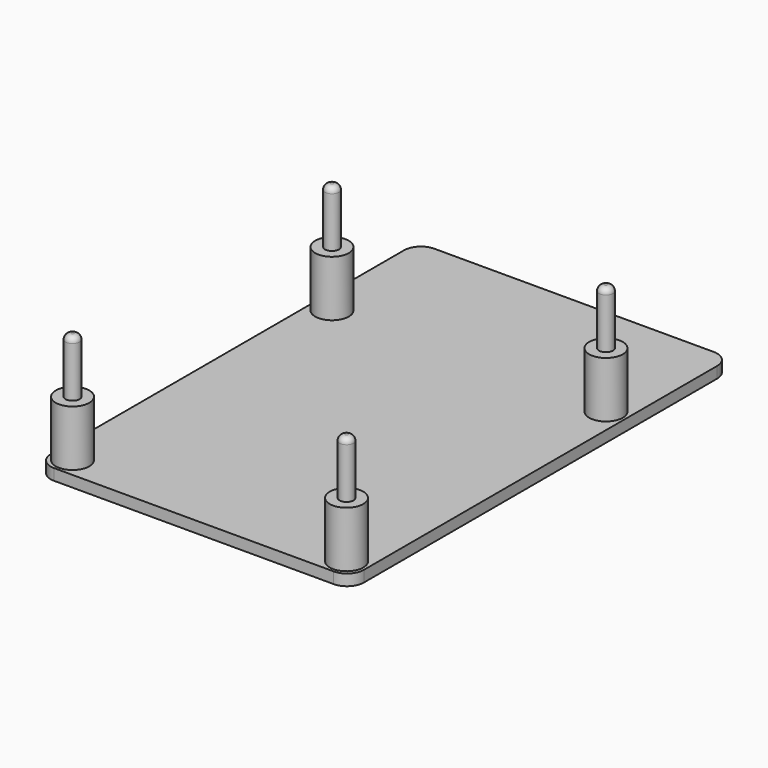
from build123d import *

# Parameters (mm, degrees)
F0_W     = 56
F0_H     = 85
F1_DEPTH = 2
F2_R     = 3
F3_R     = 1.25
F5_DEPTH = 20
F4_R     = 3
F6_DEPTH = 10
F7_R     = 2
F8_DEPTH = 7
F9_R     = 1


with BuildPart() as f1:
    # F0 (on Top) → F1 (new body)
    with BuildSketch(Plane.XY):
        Rectangle(F0_W, F0_H)
    extrude(amount=F1_DEPTH)

    # F2
    f2_edges = [f1.edges().sort_by_distance(p)[0] for p in [
        (-28, 42.5, 1),
        (28, 42.5, 1),
        (28, -42.5, 1),
        (-28, -42.5, 1),
    ]]
    fillet(f2_edges, radius=F2_R)


with BuildPart() as f5:
    # F3 (on face) → F5 (new body)
    with BuildSketch(Plane.XY.offset(2)):
        with Locations((-24.5, -39)):
            Circle(F3_R)
        with Locations((24.5, -39)):
            Circle(F3_R)
        with Locations((-24.5, 19)):
            Circle(F3_R)
        with Locations((24.5, 19)):
            Circle(F3_R)
    extrude(amount=F5_DEPTH)


with BuildPart() as f6:
    # F4 (on face) → F6 (new body)
    with BuildSketch(Plane.XY.offset(2)):
        with Locations((-24.5, 19)):
            Circle(F4_R)
        with Locations((24.5, 19)):
            Circle(F4_R)
        with Locations((-24.5, -39)):
            Circle(F4_R)
        with Locations((24.5, -39)):
            Circle(F4_R)
    extrude(amount=F6_DEPTH)


with BuildPart() as f8_tool:
    # F7 (on face) → F8 (new body)
    with BuildSketch(Plane(origin=(0, 0, 0), x_dir=(1, 0, 0), z_dir=(0, 0, -1))):
        with Locations((-24.5, 39)):
            Circle(F7_R)
        with Locations((24.5, 39)):
            Circle(F7_R)
        with Locations((-24.5, -19)):
            Circle(F7_R)
        with Locations((24.5, -19)):
            Circle(F7_R)
    extrude(amount=-F8_DEPTH)


with BuildPart() as f1_1:
    add(f1.part)

    # F8: cut by f8_tool
    add(f8_tool.part, mode=Mode.SUBTRACT)


with BuildPart() as f5_1:
    add(f5.part)

    # F8: cut by f8_tool
    add(f8_tool.part, mode=Mode.SUBTRACT)

    # F9
    f9_edges = [f5_1.edges().sort_by_distance(p)[0] for p in [
        (-25.75, 19, 22),
        (-25.75, -39, 22),
        (23.25, -39, 22),
        (23.25, 19, 22),
    ]]
    fillet(f9_edges, radius=F9_R)


with BuildPart() as f6_1:
    add(f6.part)

    # F8: cut by f8_tool
    add(f8_tool.part, mode=Mode.SUBTRACT)


solid = Compound([f1_1.part, f5_1.part, f6_1.part])
